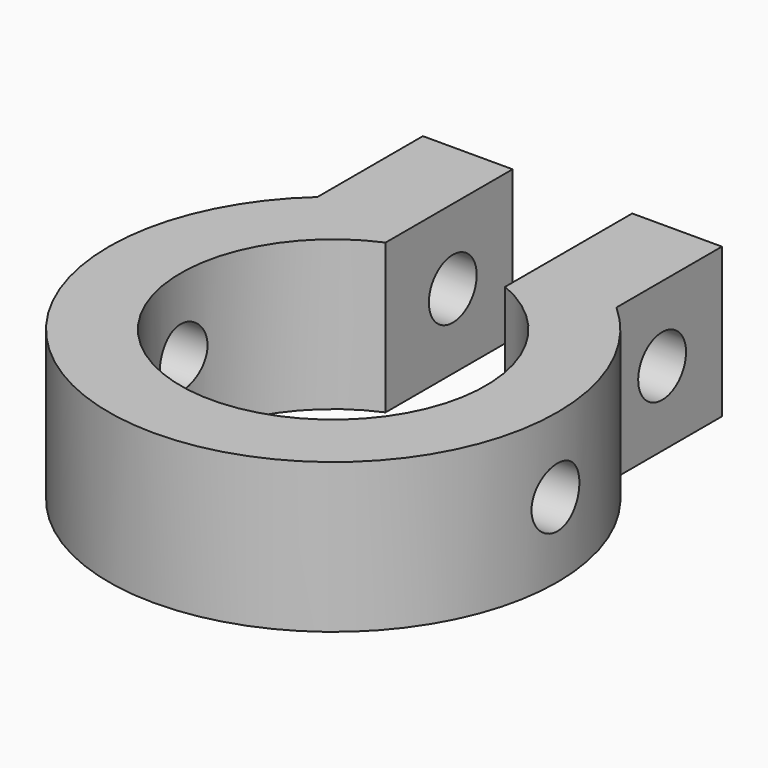
from build123d import *

# Parameters (mm, degrees)
CYLINDER003_R     = 2
CYLINDER003_DEPTH = 40
CYLINDER002_R     = 2
CYLINDER002_DEPTH = 40
CYLINDER001_R     = 10.2
CYLINDER001_DEPTH = 10
BOX001_W          = 8
BOX001_H          = 15
BOX001_DEPTH      = 10
BOX_W             = 20
BOX_H             = 10
BOX_DEPTH         = 10
CYLINDER_R        = 15
CYLINDER_DEPTH    = 10


with BuildPart() as cylinder003:
    # Cylinder003 → Cylinder003 (new body)
    with BuildSketch(Plane(origin=(-20, 15, 5), x_dir=(0, 0, -1), z_dir=(1, 0, 0))):
        Circle(CYLINDER003_R)
    extrude(amount=CYLINDER003_DEPTH)


with BuildPart() as cylinder002:
    # Cylinder002 → Cylinder002 (new body)
    with BuildSketch(Plane(origin=(-20, 0, 5), x_dir=(0, 0, -1), z_dir=(1, 0, 0))):
        Circle(CYLINDER002_R)
    extrude(amount=CYLINDER002_DEPTH)


with BuildPart() as cylinder001:
    # Cylinder001 → Cylinder001 (new body)
    with BuildSketch(Plane.XY):
        Circle(CYLINDER001_R)
    extrude(amount=CYLINDER001_DEPTH)


with BuildPart() as negative_fusion:
    # Box001 → Box001 (new body)
    with BuildSketch(Plane(origin=(-4, 5, 0), x_dir=(1, 0, 0), z_dir=(0, 0, 1))):
        with Locations((4, 7.5)):
            Rectangle(BOX001_W, BOX001_H)
    extrude(amount=BOX001_DEPTH)

    # Fusion001: union Cylinder003, Cylinder002, Cylinder001
    add(cylinder003.part)
    add(cylinder002.part)
    add(cylinder001.part)


with BuildPart() as cube:
    # Box → Box (new body)
    with BuildSketch(Plane(origin=(-10, 10, 0), x_dir=(1, 0, 0), z_dir=(0, 0, 1))):
        with Locations((10, 5)):
            Rectangle(BOX_W, BOX_H)
    extrude(amount=BOX_DEPTH)


with BuildPart() as cut:
    # Cylinder → Cylinder (new body)
    with BuildSketch(Plane.XY):
        Circle(CYLINDER_R)
    extrude(amount=CYLINDER_DEPTH)

    # Fusion: union Cube
    add(cube.part)

    # Cut: cut Negative Fusion
    add(negative_fusion.part, mode=Mode.SUBTRACT)


solid = cut.part
